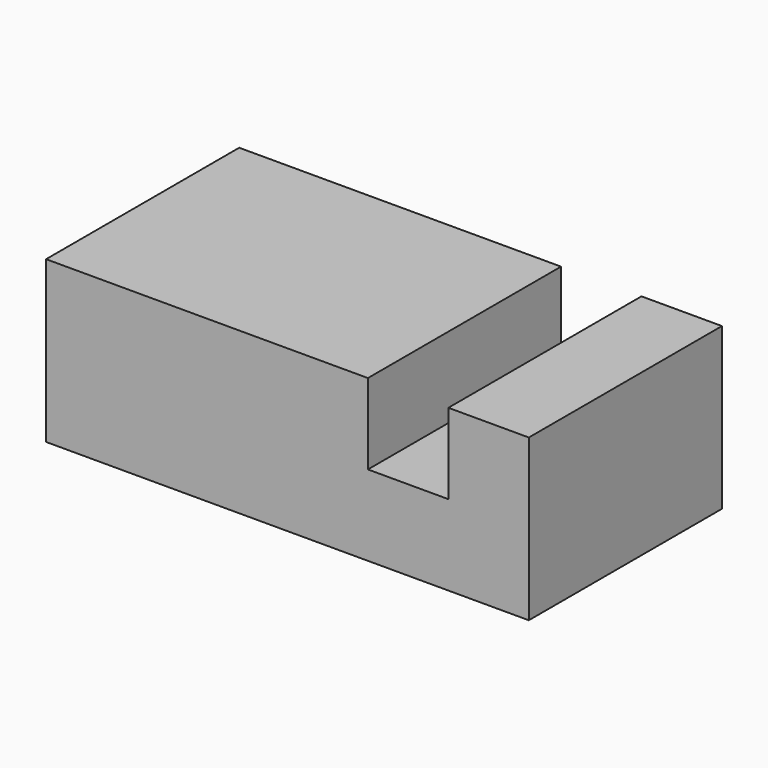
from build123d import *

# Parameters (mm, degrees)
F0_W     = 152.4
F0_H     = 50.8
F1_DEPTH = 38.1
F2_W     = 25.4
F2_H     = 25.4
F3_DEPTH = 76.201


with BuildPart() as f1:
    # F0 (on Front) → F1 (new body, symmetric)
    with BuildSketch(Plane.XZ):
        with Locations((0, 25.4)):
            Rectangle(F0_W, F0_H)
    extrude(amount=F1_DEPTH, both=True)

    # F2 (on face) → F3 (cut, through all)
    with BuildSketch(Plane.XZ.offset(38.1)):
        with Locations((38.1, 38.1)):
            Rectangle(F2_W, F2_H)
    extrude(amount=-F3_DEPTH, mode=Mode.SUBTRACT)


solid = f1.part
